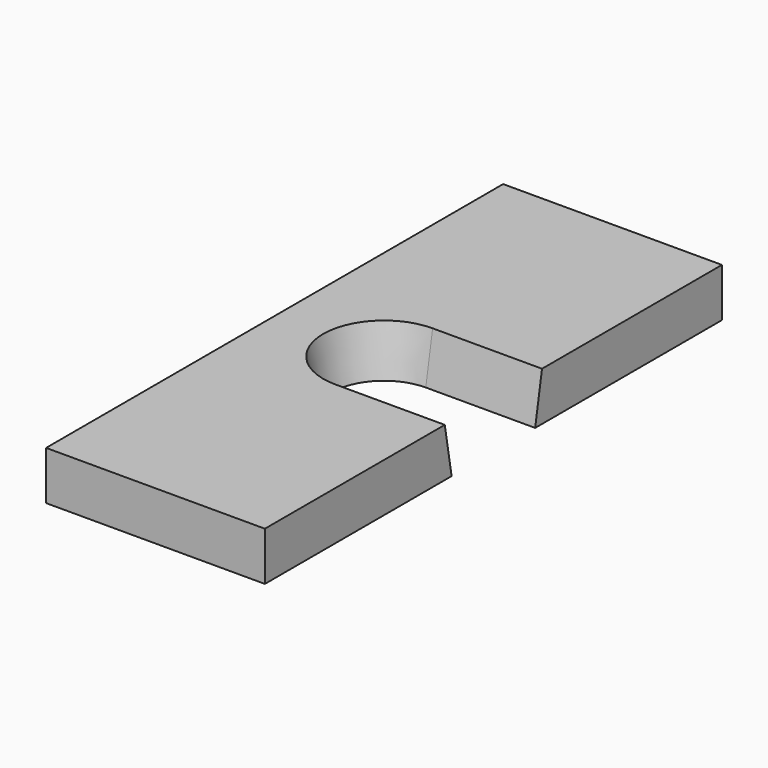
from build123d import *

# Parameters (mm, degrees)
F0_W     = 18
F0_H     = 47
F1_DEPTH = 4
F3_DEPTH = 4
F3_TAPER = 10


with BuildPart() as f1:
    # F0 (on Top) → F1 (new body)
    with BuildSketch(Plane.XY):
        Rectangle(F0_W, F0_H)
    extrude(amount=F1_DEPTH)

    # F2 (on face) → F3 (cut)
    with BuildSketch(Plane.XY.offset(4)):
        with BuildLine():
            ThreePointArc((0, -5), (3.5355339059, -3.5355339059), (5, 0))
            ThreePointArc((5, 0), (3.5355339059, 3.5355339059), (0, 5))
            Line((0, 5), (0, -5))
        make_face()
        with BuildLine():
            ThreePointArc((0, 5), (3.5355339059, 3.5355339059), (5, 0))
            ThreePointArc((5, 0), (3.5355339059, -3.5355339059), (0, -5))
            Line((0, -5), (10, -5))
            Line((10, -5), (10, 5))
            Line((10, 5), (0, 5))
        make_face()
        with BuildLine():
            Line((0, -5), (0, 5))
            ThreePointArc((0, 5), (-5, 0), (0, -5))
        make_face()
    extrude(amount=-F3_DEPTH, taper=F3_TAPER, mode=Mode.SUBTRACT)


solid = f1.part
